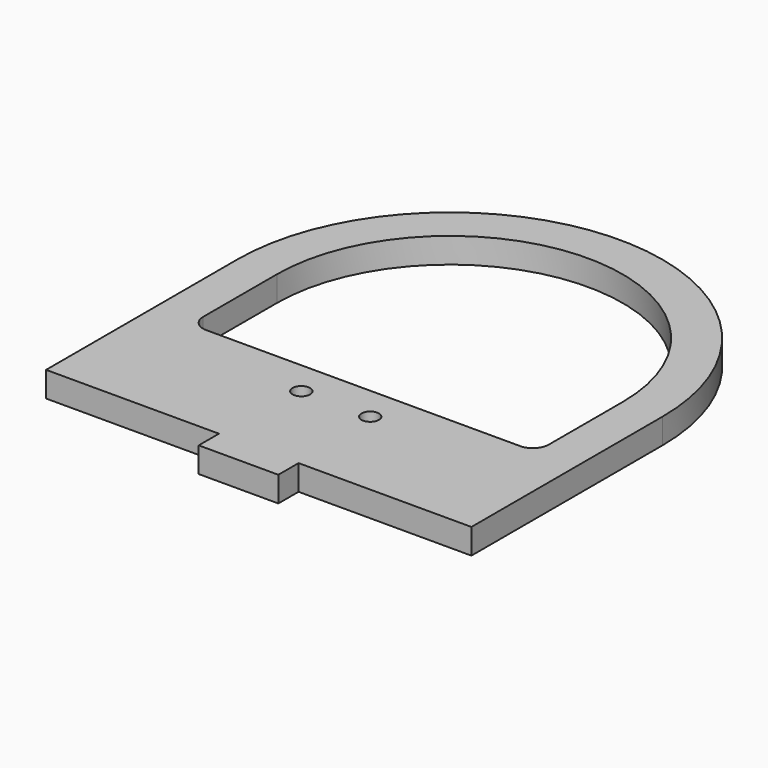
from build123d import *

# Parameters (mm, degrees)
F0_R     = 1.09933
F1_DEPTH = 3.175


with BuildPart() as f1:
    # F0 (on Top) → F1 (new body)
    with BuildSketch(Plane.XY):
        with BuildLine():
            Line((-28.183714, 20.612877), (-28.183714, -9.387123))
            Line((-28.183714, -9.387123), (-6.471708, -9.387123))
            Line((-6.471708, -9.387123), (-6.471708, -12.562123))
            Line((-6.471708, -12.562123), (3.528292, -12.562123))
            Line((3.528292, -12.562123), (3.528292, -9.387123))
            Line((3.528292, -9.387123), (25.240297, -9.387123))
            Line((25.240297, -9.387123), (25.240297, 20.612877))
            ThreePointArc((25.240297, 20.612877), (-1.471708, 47.324882), (-28.183714, 20.612877))
        make_face()
        with Locations((-5.796011, 2.705928)):
            Circle(F0_R, mode=Mode.SUBTRACT)
        with Locations((2.852595, 2.705928)):
            Circle(F0_R, mode=Mode.SUBTRACT)
        with BuildLine():
            ThreePointArc((-23.183714, 20.612877), (-1.471708, 42.324882), (20.240297, 20.612877))
            Line((20.240297, 20.612877), (20.240297, 9.01164))
            ThreePointArc((20.240297, 9.01164), (19.654511, 7.597426), (18.240297, 7.01164))
            Line((18.240297, 7.01164), (-21.183714, 7.01164))
            ThreePointArc((-21.183714, 7.01164), (-22.597927, 7.597426), (-23.183714, 9.01164))
            Line((-23.183714, 9.01164), (-23.183714, 20.612877))
        make_face(mode=Mode.SUBTRACT)
    extrude(amount=F1_DEPTH)


solid = f1.part
